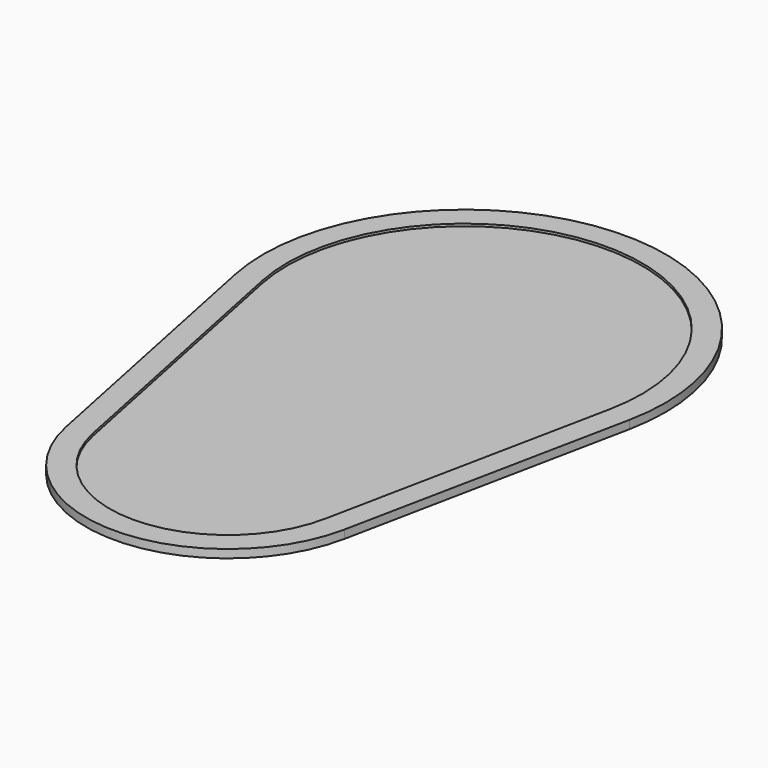
from build123d import *

# Parameters (mm, degrees)
F1_DEPTH = 0.5
F2_DEPTH = 0.7


with BuildPart() as f1:
    # F0 (on Top) → F1 (new body)
    with BuildSketch(Plane.XY):
        with BuildLine():
            Line((9.797959, 14.470961), (14.696938, 38.470961))
            ThreePointArc((14.696938, 38.470961), (0, 56.470961), (-14.696938, 38.470961))
            Line((-14.696938, 38.470961), (-9.797959, 14.470961))
            ThreePointArc((-9.797959, 14.470961), (0, 6.470961), (9.797959, 14.470961))
        make_face()
    extrude(amount=F1_DEPTH)

    # F0 (on Top) → F2 (join)
    with BuildSketch(Plane.XY):
        with BuildLine():
            ThreePointArc((16.65653, 38.070961), (0, 58.470961), (-16.65653, 38.070961))
            Line((-16.65653, 38.070961), (-11.757551, 14.070961))
            ThreePointArc((-11.757551, 14.070961), (0, 4.470961), (11.757551, 14.070961))
            Line((11.757551, 14.070961), (16.65653, 38.070961))
        make_face()
        with BuildLine():
            ThreePointArc((-14.696938, 38.470961), (0, 56.470961), (14.696938, 38.470961))
            Line((14.696938, 38.470961), (9.797959, 14.470961))
            ThreePointArc((9.797959, 14.470961), (0, 6.470961), (-9.797959, 14.470961))
            Line((-9.797959, 14.470961), (-14.696938, 38.470961))
        make_face(mode=Mode.SUBTRACT)
    extrude(amount=F2_DEPTH)


solid = f1.part
